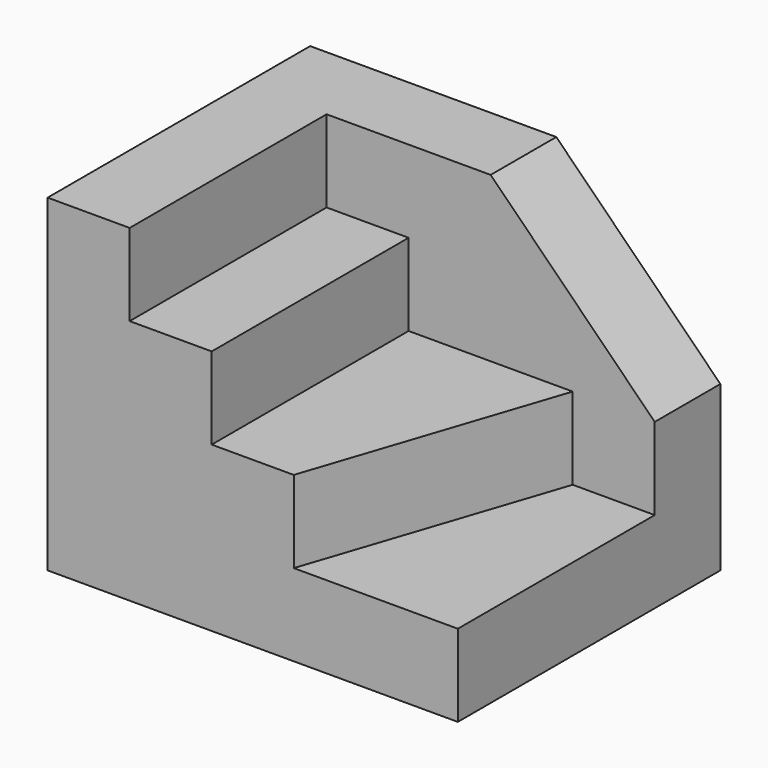
from build123d import *

# Parameters (mm, degrees)
F0_W     = 50
F0_H     = 40
F1_DEPTH = 40
F3_DEPTH = 30
F5_DEPTH = 10
F7_DEPTH = 10


with BuildPart() as f1:
    # F0 (on Front) → F1 (new body)
    with BuildSketch(Plane.XZ):
        with Locations((25, 20)):
            Rectangle(F0_W, F0_H)
    extrude(amount=F1_DEPTH)

    # F2 (on face) → F3 (cut)
    with BuildSketch(Plane.XZ.offset(40)):
        Polygon((50, 10), (50, 40), (10, 40), (10, 30), (20, 30), (20, 20), (40, 20), (40, 10), align=None)
    extrude(amount=-F3_DEPTH, mode=Mode.SUBTRACT)

    # F4 (on face) → F5 (cut)
    with BuildSketch(Plane.XZ.offset(10)):
        Polygon((50, 20), (50, 40), (30, 40), align=None)
    extrude(amount=-F5_DEPTH, mode=Mode.SUBTRACT)

    # F6 (on face) → F7 (cut)
    with BuildSketch(Plane.XY.offset(20)):
        Polygon((40, -40), (40, -10), (30, -40), align=None)
    extrude(amount=-F7_DEPTH, mode=Mode.SUBTRACT)


solid = f1.part
